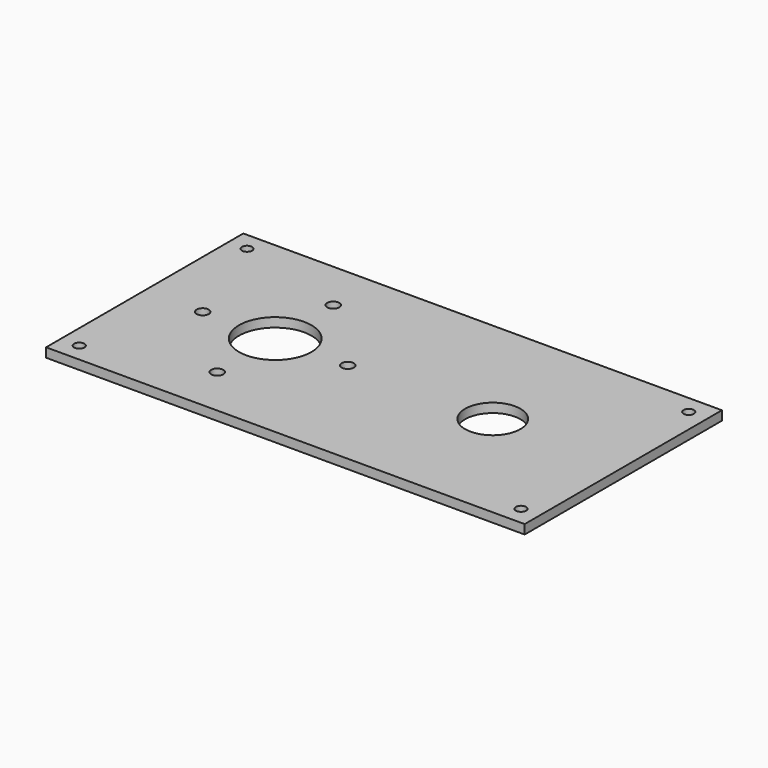
from build123d import *

# Parameters (mm, degrees)
F0_W     = 165
F0_H     = 85
F0_R     = 2.1
F0_R_2   = 12.5
F0_R_3   = 9.525
F1_DEPTH = 3.175
F2_R     = 1.778
F3_DEPTH = 3.175


with BuildPart() as f1:
    # F0 (on Top) → F1 (new body)
    with BuildSketch(Plane.XY):
        with Locations((31.925802, 2.240353)):
            Rectangle(F0_W, F0_H)
        with Locations((-5.574198, -22.759647)):
            Circle(F0_R, mode=Mode.SUBTRACT)
        with Locations((-30.574198, 2.240353)):
            Circle(F0_R, mode=Mode.SUBTRACT)
        with Locations((-5.574198, 2.240353)):
            Circle(F0_R_2, mode=Mode.SUBTRACT)
        with Locations((19.425802, 2.240353)):
            Circle(F0_R, mode=Mode.SUBTRACT)
        with Locations((-5.574198, 27.240353)):
            Circle(F0_R, mode=Mode.SUBTRACT)
        with Locations((69.425802, 2.240353)):
            Circle(F0_R_3, mode=Mode.SUBTRACT)
    extrude(amount=F1_DEPTH)

    # F2 (on face) → F3 (cut, through all)
    with BuildSketch(Plane.XY.offset(3.175)):
        with Locations((-44.224198, 38.390353)):
            Circle(F2_R)
        with Locations((-44.224198, -33.909647)):
            Circle(F2_R)
        with Locations((108.075802, 38.390353)):
            Circle(F2_R)
        with Locations((108.075802, -33.909647)):
            Circle(F2_R)
    extrude(amount=-F3_DEPTH, mode=Mode.SUBTRACT)


solid = f1.part
